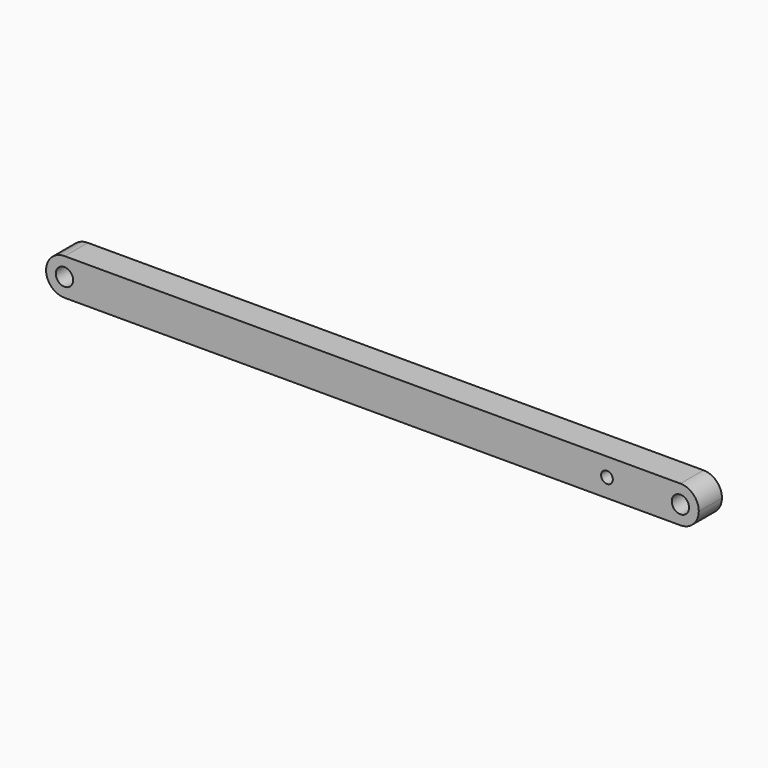
from build123d import *

# Parameters (mm, degrees)
F0_R     = 1.5
F1_DEPTH = 5
F2_R     = 1.016
F3_DEPTH = 25.4


with BuildPart() as f1:
    # F0 (on Front) → F1 (new body)
    with BuildSketch(Plane.XZ):
        with BuildLine():
            ThreePointArc((-1.5, 0), (0, -1.5), (1.5, 0))
            ThreePointArc((1.5, 0), (0, 1.5), (-1.5, 0))
        make_face()
        with BuildLine():
            ThreePointArc((0, 3.175), (-2.245064, 2.245064), (-3.175, 0))
            ThreePointArc((-3.175, 0), (-2.245064, -2.245064), (0, -3.175))
            ThreePointArc((0, -3.175), (2.245064, -2.245064), (3.175, 0))
            ThreePointArc((3.175, 0), (2.245064, 2.245064), (0, 3.175))
        make_face()
        with BuildLine():
            ThreePointArc((-1.5, 0), (0, 1.5), (1.5, 0))
            ThreePointArc((1.5, 0), (0, -1.5), (-1.5, 0))
        make_face(mode=Mode.SUBTRACT)
        with BuildLine():
            ThreePointArc((0, -3.175), (-2.245064, -2.245064), (-3.175, 0))
            Line((-3.175, 0), (-103.325, 0))
            ThreePointArc((-103.325, 0), (-104.254936, -2.245064), (-106.5, -3.175))
            Line((-106.5, -3.175), (0, -3.175))
        make_face()
        with BuildLine():
            Line((-103.325, 0), (-3.175, 0))
            ThreePointArc((-3.175, 0), (-2.245064, 2.245064), (0, 3.175))
            Line((0, 3.175), (-106.445887, 3.174539))
            ThreePointArc((-106.445887, 3.174539), (-104.235885, 2.22585), (-103.325, 0))
        make_face()
        with Locations((-106.5, 0)):
            Circle(F0_R)
        with BuildLine():
            ThreePointArc((-106.5, -3.175), (-104.254936, -2.245064), (-103.325, 0))
            ThreePointArc((-103.325, 0), (-104.235885, 2.22585), (-106.445887, 3.174539))
            ThreePointArc((-106.445887, 3.174539), (-109.674885, 0.027058), (-106.5, -3.175))
        make_face()
        with Locations((-106.5, 0)):
            Circle(F0_R, mode=Mode.SUBTRACT)
    extrude(amount=F1_DEPTH)

    # F2 (on Front) → F3 (cut)
    with BuildSketch(Plane.XZ):
        with Locations((-12.7, 0)):
            Circle(F2_R)
    extrude(amount=F3_DEPTH, mode=Mode.SUBTRACT)


solid = f1.part
